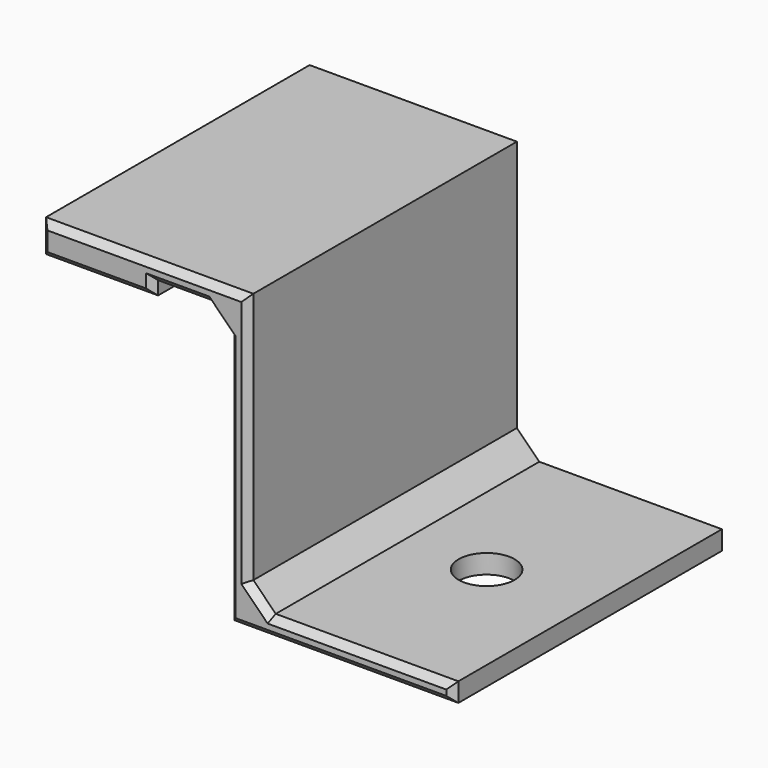
from build123d import *

# Parameters (mm, degrees)
F1_DEPTH = 30
F2_SIZE  = 2
F3_SIZE  = 0.6
F4_R     = 2.5
F5_DEPTH = 1.7


with BuildPart() as f1:
    # F0 (on Front) → F1 (new body)
    with BuildSketch(Plane.XZ):
        Polygon((0, 24.5), (0, 0), (20, 0), (20, 1.7), (1.7, 1.7), (1.7, 26.2), (-16.8, 26.2), (-16.8, 23.3), (-6.8, 23.3), (-6.8, 24.5), align=None)
    extrude(amount=-F1_DEPTH)

    # F2
    f2_edges = [f1.edges().sort_by_distance(p)[0] for p in [
        (1.7, 15, 1.7),
        (0, 15, 24.5),
    ]]
    chamfer(f2_edges, length=F2_SIZE)

    # F3
    f3_edges = [f1.edges().sort_by_distance(p)[0] for p in [
        (1.7, 0, 14.95),
        (2.7, 0, 2.7),
        (-7.55, 0, 26.2),
        (11.85, 0, 1.7),
        (-16.8, 0, 24.75),
        (20, 0, 0.85),
        (-11.8, 0, 23.3),
        (10, 0, 0),
        (-6.8, 0, 23.9),
        (0, 0, 11.25),
        (-4.4, 0, 24.5),
        (-1, 0, 23.5),
    ]]
    chamfer(f3_edges, length=F3_SIZE)

    # F4 (on face) → F5 (cut, through all)
    with BuildSketch(Plane(origin=(0, 0, 0), x_dir=(1, 0, 0), z_dir=(0, 0, -1))):
        with Locations((11, -15)):
            Circle(F4_R)
    extrude(amount=-F5_DEPTH, mode=Mode.SUBTRACT)


solid = f1.part
